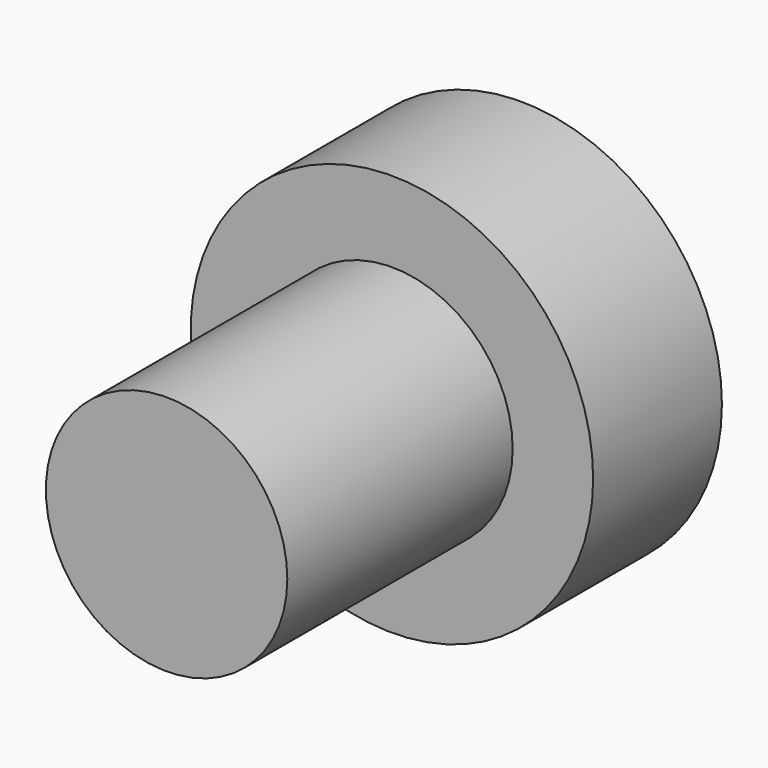
from build123d import *

# Parameters (mm, degrees)
F0_R     = 19.05
F1_DEPTH = 44.45
F0_R_2   = 31.75
F2_DEPTH = 25.4
F3_DEPTH = 25.4


with BuildPart() as f1:
    # F0 (on Front) → F1 (new body)
    with BuildSketch(Plane.XZ):
        Circle(F0_R)
    extrude(amount=F1_DEPTH)

    # F0 (on Front) → F2 (join)
    with BuildSketch(Plane.XZ):
        Circle(F0_R_2)
        Circle(F0_R, mode=Mode.SUBTRACT)
    extrude(amount=F2_DEPTH)

    # F3 (add): a face of the model
    f3_faces = [f1.faces().sort_by_distance(p)[0] for p in [
        (0, -44.45, 0),
    ]]
    extrude(f3_faces, amount=F3_DEPTH)


solid = f1.part
